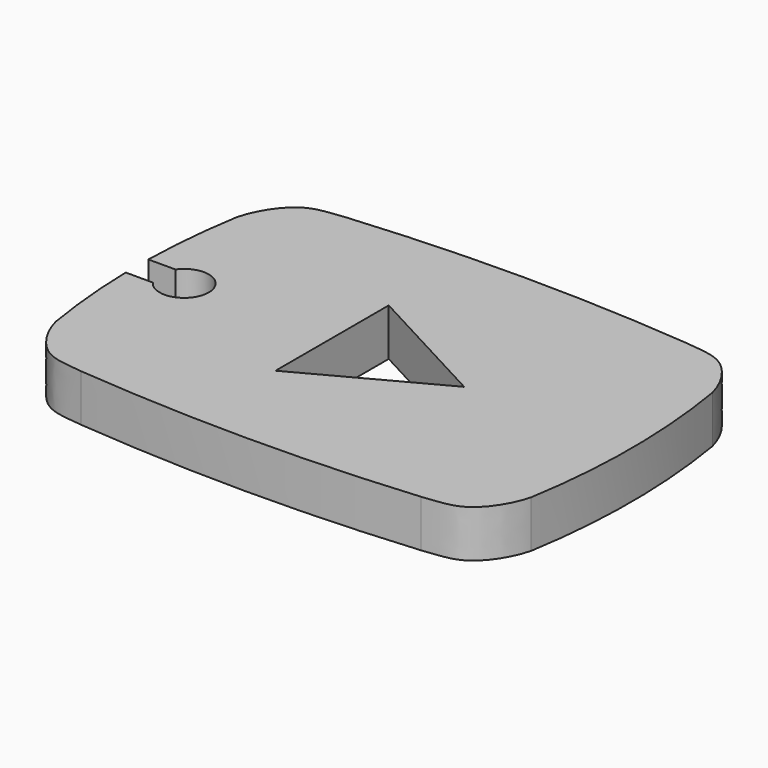
from build123d import *

# Parameters (mm, degrees)
F1_DEPTH = 5
F4_DEPTH = 3.5


with BuildPart() as f1:
    # F0 (on Top) → F1 (new body)
    with BuildSketch(Plane.XY):
        with BuildLine():
            add(Edge.make_bspline(
                [(-25.2, 12), (-24.770263451, 13.7320665567), (-22.5559362307, 17.3933294028), (-19.7388011355, 17.4001357259), (-18, 17.6210526316)],
                knots=[0, 0, 0, 0, 0.5263054949, 1, 1, 1, 1], degree=3))
            ThreePointArc((-25.2, 12), (-26.1941368445, 0), (-25.2, -12))
            add(Edge.make_bspline(
                [(-25.2, -12), (-24.770263451, -13.7320665567), (-22.5559362307, -17.3933294028), (-19.7388011355, -17.4001357259), (-18, -17.6210526316)],
                knots=[0, 0, 0, 0, 0.5263054949, 1, 1, 1, 1], degree=3))
            ThreePointArc((-18, -17.6210526316), (0, -18.4210526316), (18, -17.6210526316))
            add(Edge.make_bspline(
                [(25.2, -12), (24.770263451, -13.7320665567), (22.5559362307, -17.3933294028), (19.7388011355, -17.4001357259), (18, -17.6210526316)],
                knots=[0, 0, 0, 0, 0.5263054949, 1, 1, 1, 1], degree=3))
            ThreePointArc((25.2, -12), (26.1941368445, 0), (25.2, 12))
            add(Edge.make_bspline(
                [(25.2, 12), (24.770263451, 13.7320665567), (22.5559362307, 17.3933294028), (19.7388011355, 17.4001357259), (18, 17.6210526316)],
                knots=[0, 0, 0, 0, 0.5263054949, 1, 1, 1, 1], degree=3))
            ThreePointArc((18, 17.6210526316), (0, 18.4210526316), (-18, 17.6210526316))
        make_face()
        Polygon((-5.5, -7.5), (-5.5, 7.5), (8.5, 0), align=None, mode=Mode.SUBTRACT)
    extrude(amount=F1_DEPTH)


with BuildPart() as f1_1:
    # F2: moved
    add(f1.part)

    # F3 (on face) → F4 (cut)
    with BuildSketch(Plane.XY.offset(5)):
        with BuildLine():
            ThreePointArc((-23.302383765, -1.5), (-23.7787077069, 0), (-23.302383765, 1.5))
            Line((-23.302383765, 1.5), (-26.1787077069, 1.5))
            ThreePointArc((-26.1787077069, 1.5), (-26.1941368445, 0), (-26.1787077069, -1.5))
            Line((-26.1787077069, -1.5), (-23.302383765, -1.5))
        make_face()
        with BuildLine():
            ThreePointArc((-23.302383765, -1.5), (-20.3918016614, -2.478059498), (-18.5787077069, 0))
            ThreePointArc((-18.5787077069, 0), (-20.3918016614, 2.478059498), (-23.302383765, 1.5))
            ThreePointArc((-23.302383765, 1.5), (-23.7787077069, 0), (-23.302383765, -1.5))
        make_face()
    extrude(amount=-F4_DEPTH, mode=Mode.SUBTRACT)


solid = f1_1.part
